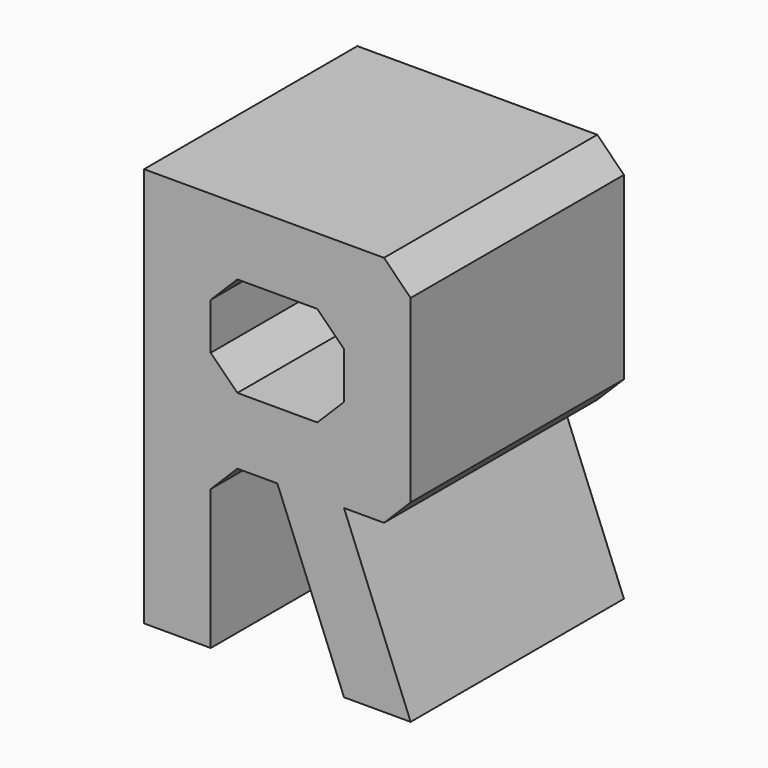
from build123d import *

# Parameters (mm, degrees)
F0_W     = 10
F0_H     = 7.5
F1_DEPTH = 20
F2_SIZE  = 2


with BuildPart() as f1:
    # F0 (on Front) → F1 (new body)
    with BuildSketch(Plane.XZ):
        Polygon((0, 30), (0, 0), (5, 0), (5, 12.5), (10, 12.5), (15, 0), (20, 0), (15, 12.5), (20, 12.5), (20, 30), align=None)
        with Locations((10, 21.25)):
            Rectangle(F0_W, F0_H, mode=Mode.SUBTRACT)
    extrude(amount=F1_DEPTH)

    # F2
    f2_edges = [f1.edges().sort_by_distance(p)[0] for p in [
        (20, -10, 30),
        (20, -10, 12.5),
        (5, -10, 17.5),
        (5, -10, 25),
        (5, -10, 12.5),
        (15, -10, 25),
        (15, -10, 17.5),
    ]]
    chamfer(f2_edges, length=F2_SIZE)


solid = f1.part
